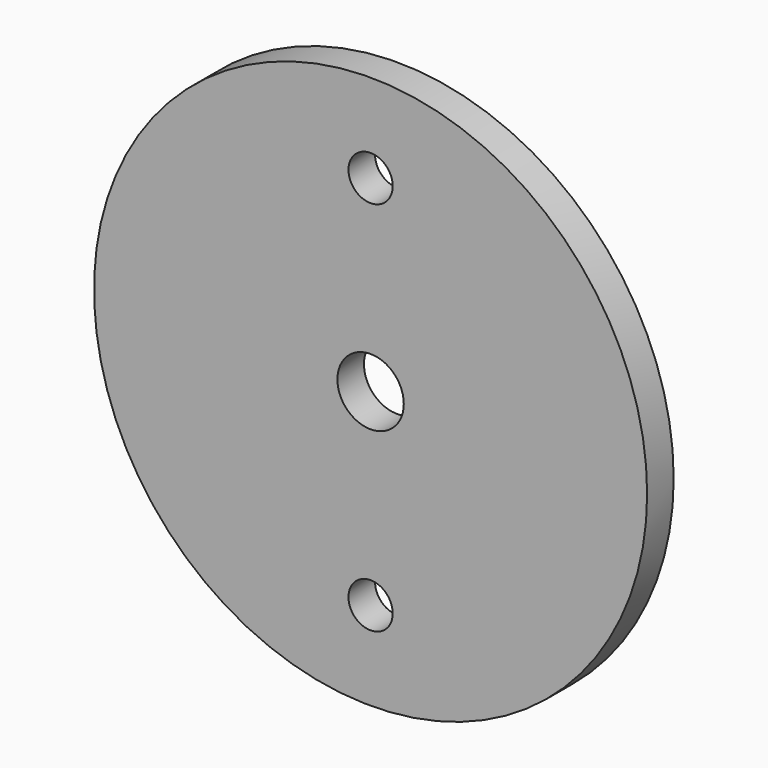
from build123d import *

# Parameters (mm, degrees)
SKETCH_AS_DRAWN_R              = 25
SKETCH_AS_DRAWN_R_2            = 3
SKETCH_AS_DRAWN_R_3            = 2
EXTRUDE_DEPTH                  = 3
EXTRUDE_ONTO_SKETCH_ROLL_ANGLE = 90


with BuildPart() as part:
    # Sketch as drawn → Extrude (new)
    with BuildSketch(Plane.XY):
        Circle(SKETCH_AS_DRAWN_R)
        Circle(SKETCH_AS_DRAWN_R_2, mode=Mode.SUBTRACT)
        with Locations((0, 17)):
            Circle(SKETCH_AS_DRAWN_R_3, mode=Mode.SUBTRACT)
        with Locations((0, -17)):
            Circle(SKETCH_AS_DRAWN_R_3, mode=Mode.SUBTRACT)
    extrude(amount=-EXTRUDE_DEPTH)


with BuildPart() as part_1:
    # Extrude onto Sketch roll: moved
    add(part.part.rotate(Axis((0, 0, 0), (1, 0, 0)), EXTRUDE_ONTO_SKETCH_ROLL_ANGLE))


with BuildPart() as part_2:
    # Extrude onto Sketch placement: moved
    add(part_1.part)


with BuildPart() as part_3:
    # Extrude placement: moved
    add(part_2.part.moved(Location((0, -11, 0))))


solid = part_3.part
